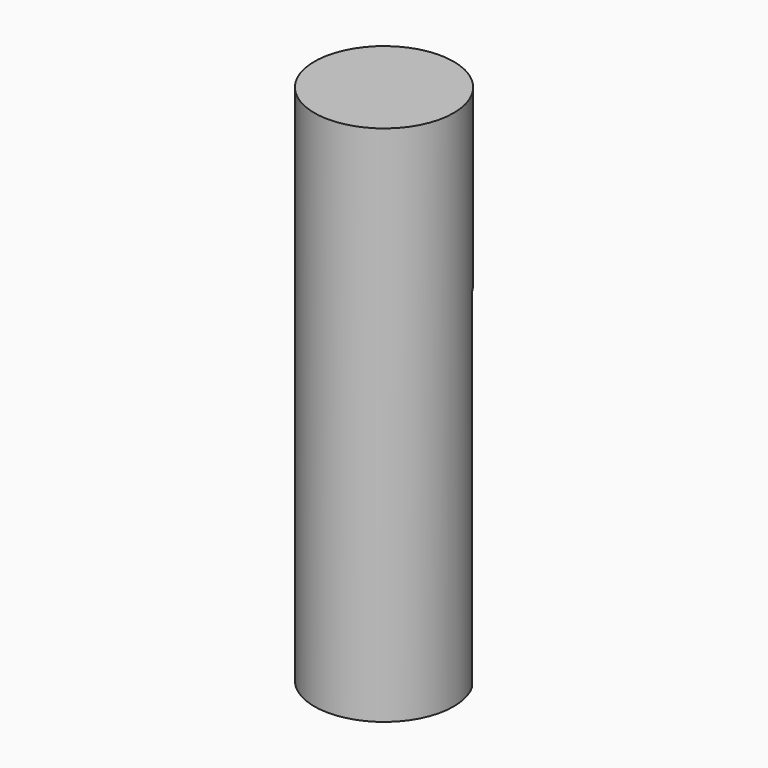
from build123d import *

# Parameters (mm, degrees)
F0_R     = 2
F1_DEPTH = 15
F2_DEPTH = 10


with BuildPart() as f1:
    # F0 (on Top) → F1 (new body)
    with BuildSketch(Plane.XY):
        Circle(F0_R)
    extrude(amount=F1_DEPTH)

    # F3 (on face) → F2 (cut)
    with BuildSketch(Plane(origin=(0, 0, 0), x_dir=(1, 0, 0), z_dir=(0, 0, -1))):
        with BuildLine():
            ThreePointArc((-1.7320508076, -1), (-1, -1.7320508076), (0, -2))
            ThreePointArc((0, -2), (1, -1.7320508076), (1.7320508076, -1))
            Line((1.7320508076, -1), (-1.7320508076, -1))
        make_face()
    extrude(amount=-F2_DEPTH, mode=Mode.SUBTRACT)


solid = f1.part
